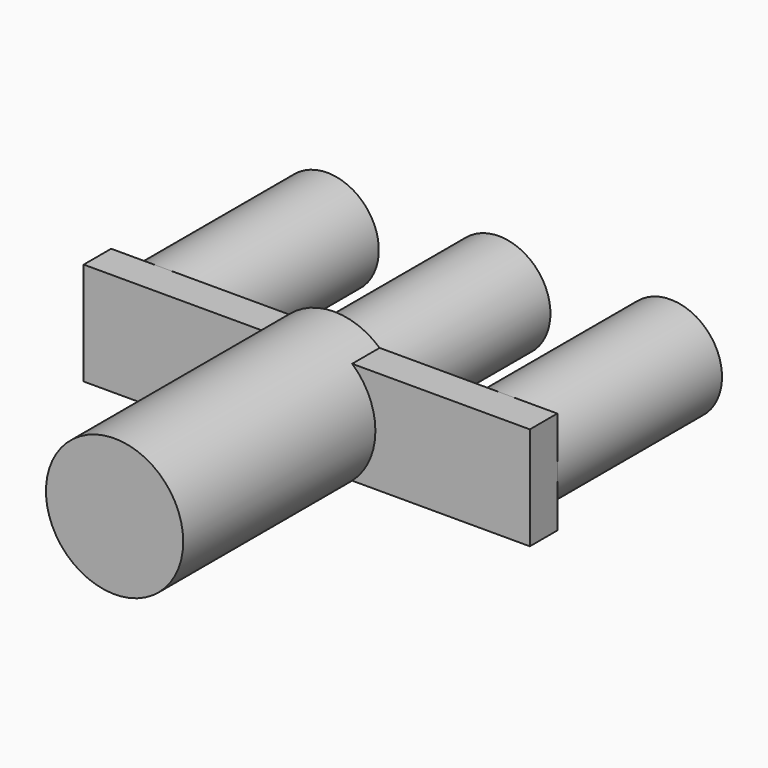
from build123d import *

# Parameters (mm, degrees)
F0_R     = 10
F1_DEPTH = 40
F2_W     = 65
F2_H     = 15
F3_DEPTH = 5
F4_R     = 7.5
F5_DEPTH = 30


with BuildPart() as f1:
    # F0 (on Front) → F1 (new body)
    with BuildSketch(Plane.XZ):
        Circle(F0_R)
    extrude(amount=F1_DEPTH)

    # F2 (on face) → F3 (join)
    with BuildSketch(Plane(origin=(0, 0, 0), x_dir=(-1, 0, 0), z_dir=(0, 1, 0))):
        Rectangle(F2_W, F2_H)
    extrude(amount=-F3_DEPTH)

    # F4 (on face) → F5 (join)
    with BuildSketch(Plane(origin=(0, 0, 0), x_dir=(-1, 0, 0), z_dir=(0, 1, 0))):
        Circle(F4_R)
        with Locations((-25, 0)):
            Circle(F4_R)
        with Locations((25, 0)):
            Circle(F4_R)
    extrude(amount=F5_DEPTH)


solid = f1.part
